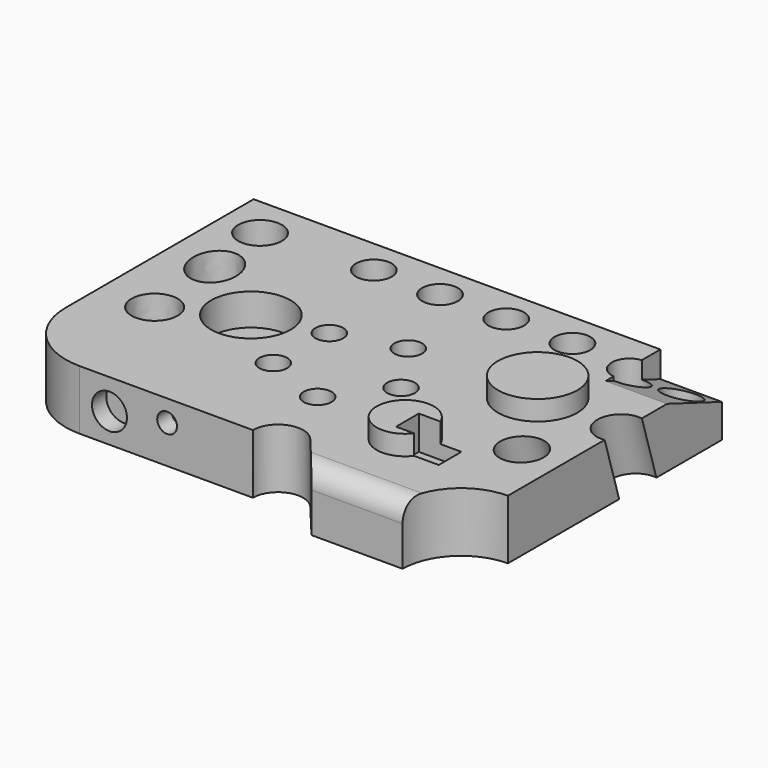
from build123d import *

# Parameters (mm, degrees)
SKETCH_R            = 11
PAD_DEPTH           = 30
SKETCH001_R         = 9
POCKET_DEPTH        = 20
LINEARPATTERN_COUNT = 4
LINEARPATTERN_PITCH = 33.333333
SKETCH002_R         = 7
POCKET001_DEPTH     = 50
POLARPATTERN_COUNT  = 5
SKETCH003_R         = 19.967924
PAD001_DEPTH        = 10
SKETCH004_R         = 14.399073
PAD002_DEPTH        = 10
SKETCH005_W         = 21.458343
SKETCH005_H         = 14.30555
POCKET002_DEPTH     = 17
SKETCH006_R         = 8.796322
SKETCH006_R_2       = 4.979109
POCKET003_DEPTH     = 9
SKETCH007_R         = 9.153596
SKETCH007_R_2       = 8.864849
POCKET004_DEPTH     = 30.001
POCKET005_DEPTH     = 31
SKETCH009_R         = 20.022399
POCKET006_DEPTH     = 16
SKETCH010_R         = 8.593369
POCKET007_DEPTH     = 14.001
SKETCH011_R         = 11.332892
SKETCH011_R_2       = 10.918962
POCKET008_DEPTH     = 97.499965
FILLET001_R         = 10


with BuildPart() as part:
    # Sketch → Pad (new body)
    with BuildSketch(Plane.XY):
        with BuildLine():
            Line((-116.998733, 88.162117), (-116.998733, -30.136229))
            ThreePointArc((-116.998733, -30.136229), (-106.631848, -55.164103), (-81.603974, -65.530988))
            Line((-81.603974, -65.530988), (5.609326, -65.530988))
            ThreePointArc((5.609326, -65.530988), (13.956653, -53.631582), (27.986873, -57.429828))
            Line((27.986873, -57.429828), (43.47437, -76.016704))
            Line((43.47437, -76.016704), (89.343571, -76.016704))
            ThreePointArc((89.343571, -76.016704), (97.973142, -55.183078), (118.806768, -46.553507))
            Line((118.806768, -46.553507), (118.806768, 88.162117))
            Line((118.806768, 88.162117), (-116.998733, 88.162117))
        make_face()
        with Locations((-97.09697, 67.319939)):
            Circle(SKETCH_R, mode=Mode.SUBTRACT)
        with BuildLine():
            add(Edge.make_bspline(
                [(-89.9422, 20.036238), (-70.566539, 24.4398), (-84.920526, 42.769094), (-99.274513, 61.098387), (-104.296187, 38.365531), (-109.317861, 15.632676), (-89.9422, 20.036238)],
                knots=[0, 0, 0, 2.094395, 2.094395, 4.18879, 4.18879, 6.283185, 6.283185, 6.283185], degree=2, weights=[1, 0.5, 1, 0.5, 1, 0.5, 1]))
        make_face(mode=Mode.SUBTRACT)
        with BuildLine():
            add(Edge.make_bspline(
                [(-83.684752, -17.754954), (-66.720609, -6.916745), (-84.588852, 2.355541), (-102.457096, 11.627826), (-101.552996, -8.482669), (-100.648895, -28.593164), (-83.684752, -17.754954)],
                knots=[0, 0, 0, 2.094395, 2.094395, 4.18879, 4.18879, 6.283185, 6.283185, 6.283185], degree=2, weights=[1, 0.5, 1, 0.5, 1, 0.5, 1]))
        make_face(mode=Mode.SUBTRACT)
    extrude(amount=PAD_DEPTH)

    # Sketch001 (on Face14 of Pad) → Pocket (cut)
    with BuildSketch(Plane.XY.offset(30)):
        with Locations((-42.38636, 70.557236)):
            Circle(SKETCH001_R)
    pocket = extrude(amount=-POCKET_DEPTH, mode=Mode.SUBTRACT)

    # LinearPattern: Pocket ×4
    with Locations(*[(i * LINEARPATTERN_PITCH, 0, 0) for i in range(1, LINEARPATTERN_COUNT)]):
        add(pocket, mode=Mode.SUBTRACT)

    # Sketch002 (on Face5 of LinearPattern) → Pocket001 (cut)
    with BuildSketch(Plane.XY.offset(30)):
        with Locations((-22.517538, 17.706181)):
            Circle(SKETCH002_R)
    pocket001 = extrude(amount=-POCKET001_DEPTH, mode=Mode.SUBTRACT)

    # PolarPattern: Pocket001 ×5 about axis
    polarpattern_axis = Axis((0, 0, 30), (0, 0, 1))
    for i in range(1, POLARPATTERN_COUNT):
        add(pocket001.rotate(polarpattern_axis, i * 360 / POLARPATTERN_COUNT), mode=Mode.SUBTRACT)

    # Sketch003 (on Face5 of PolarPattern) → Pad001 (join)
    with BuildSketch(Plane.XY.offset(30)):
        with Locations((76.03183, 25.653826)):
            Circle(SKETCH003_R)
    extrude(amount=PAD001_DEPTH)

    # Sketch004 (on Face5 of Pad001) → Pad002 (join)
    with BuildSketch(Plane.XY.offset(30)):
        with Locations((57.355137, -34.349995)):
            Circle(SKETCH004_R)
    extrude(amount=PAD002_DEPTH)

    # Sketch005 (on Face27 of Pad002) → Pocket002 (cut)
    with BuildSketch(Plane.XY.offset(40)):
        with Locations((70.468574, -35.939503)):
            Rectangle(SKETCH005_W, SKETCH005_H)
    extrude(amount=-POCKET002_DEPTH, mode=Mode.SUBTRACT)

    # Sketch006 (on Face7 of Pocket002) → Pocket003 (cut)
    with BuildSketch(Plane.XZ.offset(65.530988)):
        with Locations((-66.626236, 14.801361)):
            Circle(SKETCH006_R)
        with Locations((-37.617748, 19.172501)):
            Circle(SKETCH006_R_2)
    extrude(amount=-POCKET003_DEPTH, mode=Mode.SUBTRACT)

    # Sketch007 (on Face5 of Pocket003) → Pocket004 (cut, through all)
    with BuildSketch(Plane.XY.offset(30)):
        with Locations((108.318863, 75.721344)):
            Circle(SKETCH007_R)
        with Locations((88.660011, 67.626526)):
            Circle(SKETCH007_R_2)
    extrude(amount=-POCKET004_DEPTH, mode=Mode.SUBTRACT)

    # Sketch008 (on Face6 of Pocket004) → Pocket005 (cut)
    with BuildSketch(Plane.YZ.offset(118.806768)):
        Polygon((50.459274, 31.226437), (92.608627, 15.141857), (92.608627, 31.226437), align=None)
    extrude(amount=-POCKET005_DEPTH, mode=Mode.SUBTRACT)

    # Sketch009 (on Face5 of Pocket005) → Pocket006 (cut)
    with BuildSketch(Plane.XY.offset(30)):
        with Locations((-56.253952, 10.505623)):
            Circle(SKETCH009_R)
    extrude(amount=-POCKET006_DEPTH, mode=Mode.SUBTRACT)

    # Sketch010 (on Face39 of Pocket006) → Pocket007 (cut, through all)
    with BuildSketch(Plane.XY.offset(14)):
        with Locations((-56.253952, 10.505623)):
            Circle(SKETCH010_R)
    extrude(amount=-POCKET007_DEPTH, mode=Mode.SUBTRACT)

    # Sketch011 (on DatumPlane) → Pocket008 (cut, through all)
    with BuildSketch(Plane(origin=(0, 0, 75), x_dir=(1, 0, 0), z_dir=(0, -0.292372, 0.956305))):
        with Locations((117.145973, 11.75148)):
            Circle(SKETCH011_R)
        with Locations((98.487206, -24.922645)):
            Circle(SKETCH011_R_2)
    extrude(amount=-POCKET008_DEPTH, mode=Mode.SUBTRACT)

    # Fillet001
    fillet001_edges = [part.edges().sort_by_distance(p)[0] for p in [
        (66.40897, -76.016704, 30),
    ]]
    fillet(fillet001_edges, radius=FILLET001_R)


solid = part.part
